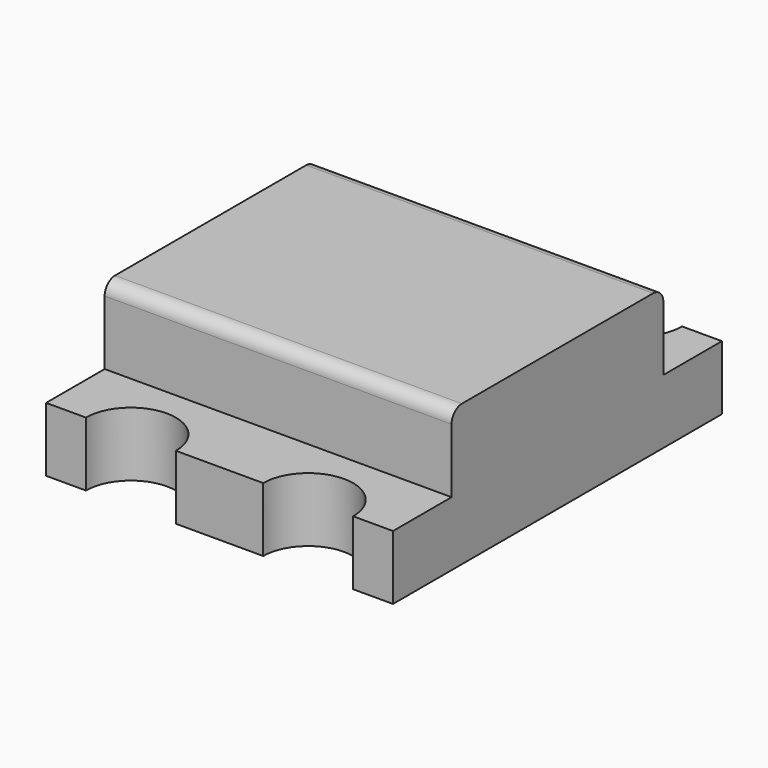
from build123d import *

# Parameters (mm, degrees)
F0_W     = 2.7
F0_H     = 3.2
F1_DEPTH = 0.5
F3_DEPTH = 0.501
F4_W     = 2.7
F4_H     = 2.06
F5_DEPTH = 0.6
F6_R     = 0.1


with BuildPart() as f1:
    # F0 (on Top) → F1 (new body)
    with BuildSketch(Plane.XY):
        Rectangle(F0_W, F0_H)
    extrude(amount=F1_DEPTH)

    # F2 (on face) → F3 (cut, through all)
    with BuildSketch(Plane.XY.offset(0.5)):
        with BuildLine():
            Line((-0.34, 1.6), (-1.04, 1.6))
            ThreePointArc((-1.04, 1.6), (-0.69, 1.25), (-0.34, 1.6))
        make_face()
        with BuildLine():
            Line((1.04, 1.6), (0.34, 1.6))
            ThreePointArc((0.34, 1.6), (0.69, 1.25), (1.04, 1.6))
        make_face()
        with BuildLine():
            ThreePointArc((1.04, -1.6), (0.69, -1.25), (0.34, -1.6))
            Line((0.34, -1.6), (1.04, -1.6))
        make_face()
        with BuildLine():
            ThreePointArc((-0.34, -1.6), (-0.69, -1.25), (-1.04, -1.6))
            Line((-1.04, -1.6), (-0.34, -1.6))
        make_face()
    extrude(amount=-F3_DEPTH, mode=Mode.SUBTRACT)

    # F4 (on face) → F5 (join)
    with BuildSketch(Plane.XY.offset(0.5)):
        Rectangle(F4_W, F4_H)
    extrude(amount=F5_DEPTH)

    # F6
    f6_edges = [f1.edges().sort_by_distance(p)[0] for p in [
        (0, 1.03, 1.1),
        (0, -1.03, 1.1),
    ]]
    fillet(f6_edges, radius=F6_R)


solid = f1.part
